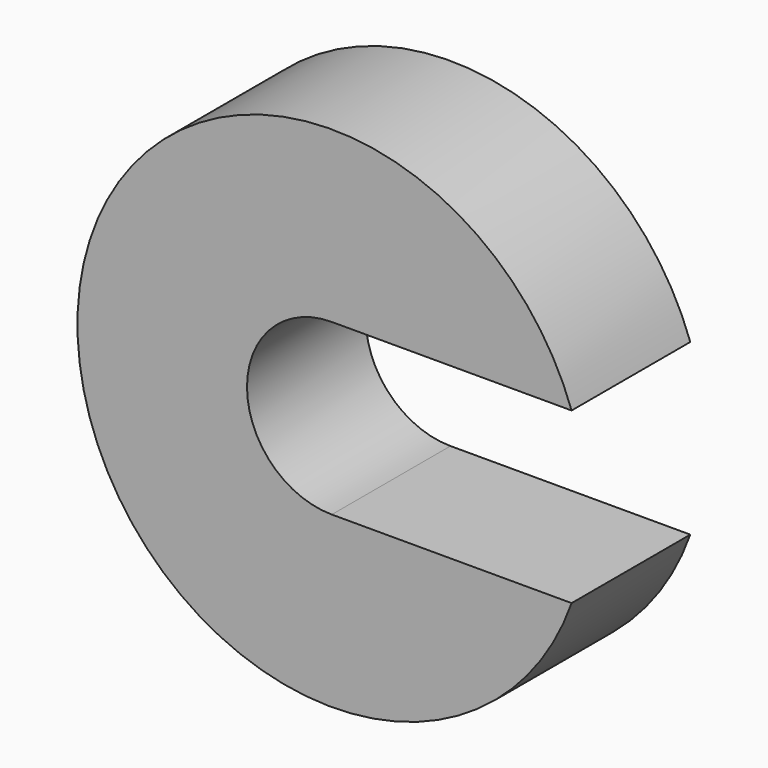
from build123d import *

# Parameters (mm, degrees)
F0_R     = 76.2
F1_DEPTH = 44.45
F3_DEPTH = 44.45


with BuildPart() as f1:
    # F0 (on Front) → F1 (new body)
    with BuildSketch(Plane.XZ):
        Circle(F0_R)
    extrude(amount=F1_DEPTH)

    # F2 (on face) → F3 (cut, through all)
    with BuildSketch(Plane.XZ.offset(44.45)):
        with BuildLine():
            Line((71.842049, 25.4), (0, 25.4))
            ThreePointArc((0, 25.4), (-25.4, 0), (0, -25.4))
            Line((0, -25.4), (71.842049, -25.4))
            ThreePointArc((71.842049, -25.4), (75.10261, -12.885571), (76.2, 0))
            ThreePointArc((76.2, 0), (75.10261, 12.885571), (71.842049, 25.4))
        make_face()
    extrude(amount=-F3_DEPTH, mode=Mode.SUBTRACT)


solid = f1.part
